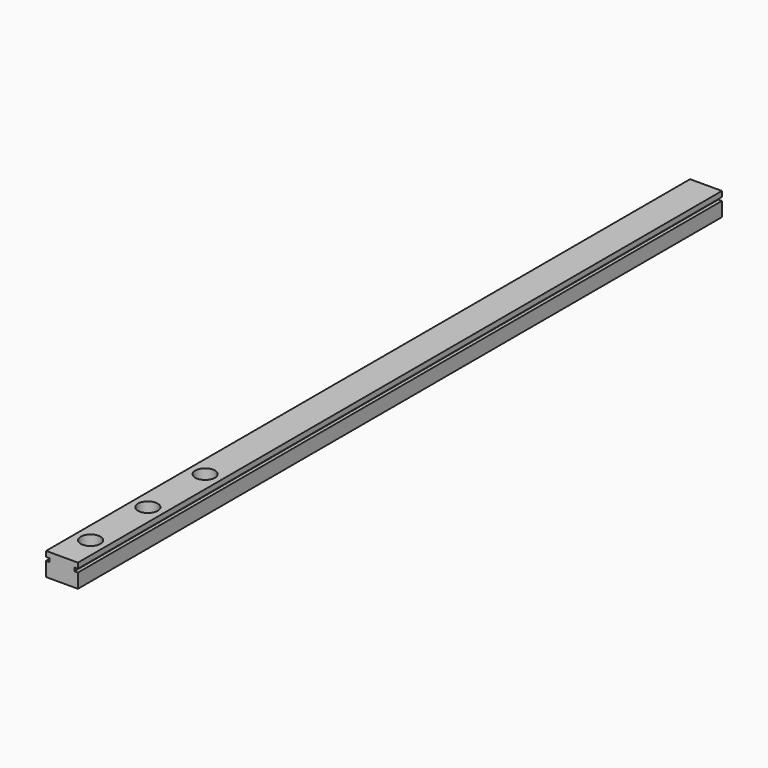
from build123d import *

# Parameters (mm, degrees)
F1_DEPTH = 225
F2_R     = 2.75
F3_DEPTH = 4.25
F4_R     = 1.675
F5_DEPTH = 2.201


with BuildPart() as f1:
    # F0 (on Front) → F1 (new body)
    with BuildSketch(Plane.XZ):
        Polygon((-4.45, 4), (-4.45, 0), (4.45, 0), (4.45, 4), (3.45, 4), (3.45, 4.95), (4.45, 4.95), (4.45, 6.45), (-4.45, 6.45), (-4.45, 4.95), (-3.45, 4.95), (-3.45, 4), align=None)
    extrude(amount=F1_DEPTH)

    # F2 (on face) → F3 (cut)
    with BuildSketch(Plane.XY.offset(6.45)):
        with Locations((0, -215)):
            Circle(F2_R)
        with Locations((0, -195)):
            Circle(F2_R)
        with Locations((0, -175)):
            Circle(F2_R)
    extrude(amount=-F3_DEPTH, mode=Mode.SUBTRACT)

    # F4 (on face) → F5 (cut, through all)
    with BuildSketch(Plane.XY.offset(2.2)):
        with Locations((0, -215)):
            Circle(F4_R)
    extrude(amount=-F5_DEPTH, mode=Mode.SUBTRACT)


solid = f1.part
